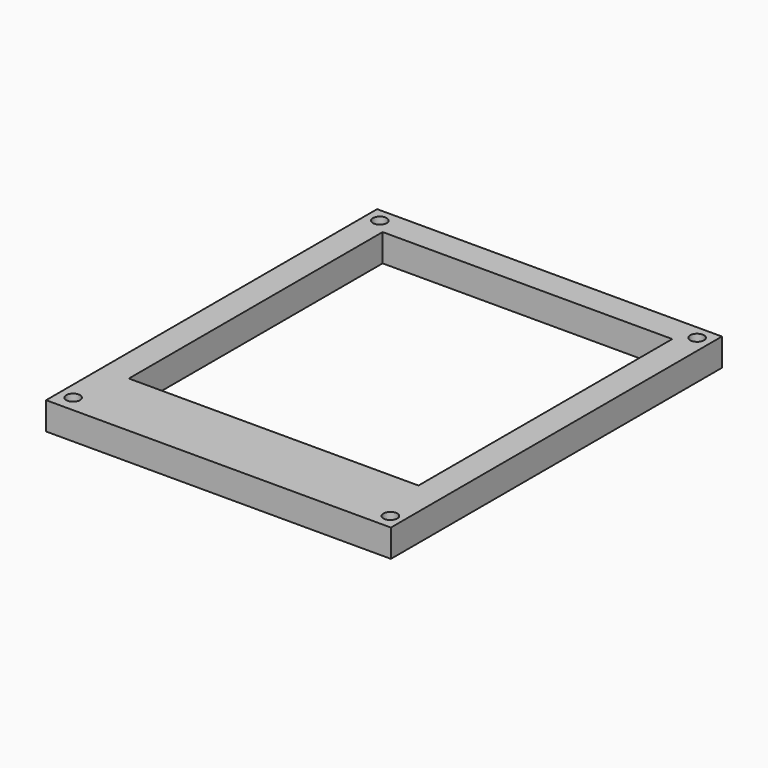
from build123d import *

# Parameters (mm, degrees)
F0_W     = 5.08
F0_H     = 5.08
F0_R     = 1.27
F0_W_2   = 53.340002
F0_H_2   = 58.42
F0_W_3   = 5.079998
F0_H_3   = 12.7
F1_DEPTH = 5.08


with BuildPart() as f1:
    # F0 (on Top) → F1 (new body)
    with BuildSketch(Plane.XY):
        with Locations((-38.3377, 31.580215)):
            Rectangle(F0_W, F0_H)
        with Locations((-38.3377, 31.580215)):
            Circle(F0_R, mode=Mode.SUBTRACT)
        with Locations((-9.127699, 31.580215)):
            Rectangle(F0_W_2, F0_H)
        with Locations((-38.3377, -0.169785)):
            Rectangle(F0_W, F0_H_2)
        with Locations((20.082301, 31.580215)):
            Rectangle(F0_W_3, F0_H)
        with Locations((20.082301, 31.580215)):
            Circle(F0_R, mode=Mode.SUBTRACT)
        with Locations((-38.3377, -35.729785)):
            Rectangle(F0_W, F0_H_3)
        with Locations((-38.3377, -39.031785)):
            Circle(F0_R, mode=Mode.SUBTRACT)
        with Locations((20.082301, -0.169785)):
            Rectangle(F0_W_3, F0_H_2)
        with Locations((-9.127699, -35.729785)):
            Rectangle(F0_W_2, F0_H_3)
        with Locations((20.082301, -35.729785)):
            Rectangle(F0_W_3, F0_H_3)
        with Locations((20.313209, -39.308877)):
            Circle(F0_R, mode=Mode.SUBTRACT)
    extrude(amount=F1_DEPTH)


solid = f1.part
